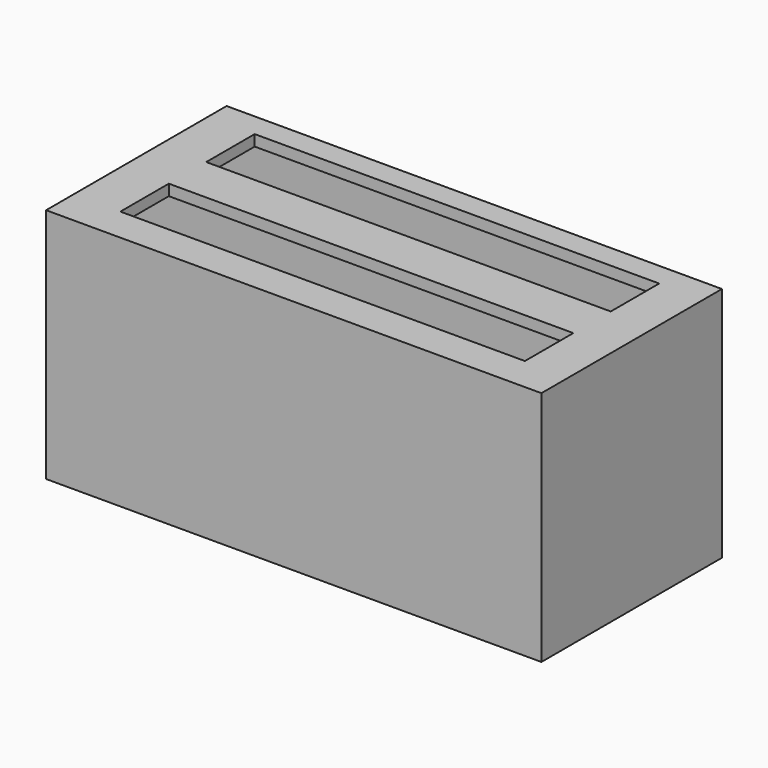
from build123d import *

# Parameters (mm, degrees)
BOX006_W     = 73.5
BOX006_H     = 11
BOX006_DEPTH = 10
BOX005_W     = 73.5
BOX005_H     = 11
BOX005_DEPTH = 10
BOX004_W     = 88
BOX004_H     = 1
BOX004_DEPTH = 17
BOX003_W     = 88
BOX003_H     = 1
BOX003_DEPTH = 17
BOX002_W     = 88
BOX002_H     = 16.5
BOX002_DEPTH = 39
BOX001_W     = 88
BOX001_H     = 16.5
BOX001_DEPTH = 39
BOX_W        = 90
BOX_H        = 41
BOX_DEPTH    = 43


with BuildPart() as cube006:
    # Box006 → Box006 (new body)
    with BuildSketch(Plane(origin=(8.5, 25.75, 35), x_dir=(1, 0, 0), z_dir=(0, 0, 1))):
        with Locations((36.75, 5.5)):
            Rectangle(BOX006_W, BOX006_H)
    extrude(amount=BOX006_DEPTH)


with BuildPart() as cube005:
    # Box005 → Box005 (new body)
    with BuildSketch(Plane(origin=(8.5, 6.25, 35), x_dir=(1, 0, 0), z_dir=(0, 0, 1))):
        with Locations((36.75, 5.5)):
            Rectangle(BOX005_W, BOX005_H)
    extrude(amount=BOX005_DEPTH)


with BuildPart() as cube004:
    # Box004 → Box004 (new body)
    with BuildSketch(Plane(origin=(0, 38, 2), x_dir=(1, 0, 0), z_dir=(0, 0, 1))):
        with Locations((44, 0.5)):
            Rectangle(BOX004_W, BOX004_H)
    extrude(amount=BOX004_DEPTH)


with BuildPart() as cube003:
    # Box003 → Box003 (new body)
    with BuildSketch(Plane(origin=(0, 18.5, 2), x_dir=(1, 0, 0), z_dir=(0, 0, 1))):
        with Locations((44, 0.5)):
            Rectangle(BOX003_W, BOX003_H)
    extrude(amount=BOX003_DEPTH)


with BuildPart() as cube002:
    # Box002 → Box002 (new body)
    with BuildSketch(Plane(origin=(0, 21.5, 2), x_dir=(1, 0, 0), z_dir=(0, 0, 1))):
        with Locations((44, 8.25)):
            Rectangle(BOX002_W, BOX002_H)
    extrude(amount=BOX002_DEPTH)


with BuildPart() as cube001:
    # Box001 → Box001 (new body)
    with BuildSketch(Plane(origin=(0, 2, 2), x_dir=(1, 0, 0), z_dir=(0, 0, 1))):
        with Locations((44, 8.25)):
            Rectangle(BOX001_W, BOX001_H)
    extrude(amount=BOX001_DEPTH)


with BuildPart() as cut005:
    # Box → Box (new body)
    with BuildSketch(Plane.XY):
        with Locations((45, 20.5)):
            Rectangle(BOX_W, BOX_H)
    extrude(amount=BOX_DEPTH)

    # Cut: cut Cube001
    add(cube001.part, mode=Mode.SUBTRACT)

    # Cut001: cut Cube002
    add(cube002.part, mode=Mode.SUBTRACT)

    # Cut002: cut Cube003
    add(cube003.part, mode=Mode.SUBTRACT)

    # Cut003: cut Cube004
    add(cube004.part, mode=Mode.SUBTRACT)

    # Cut004: cut Cube005
    add(cube005.part, mode=Mode.SUBTRACT)

    # Cut005: cut Cube006
    add(cube006.part, mode=Mode.SUBTRACT)


solid = cut005.part
